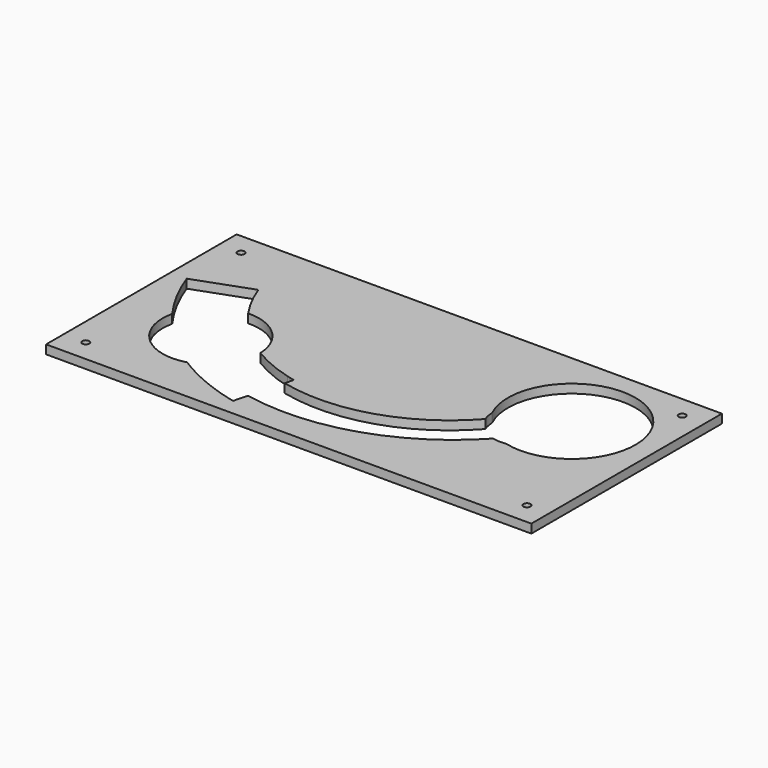
from build123d import *

# Parameters (mm, degrees)
F0_R     = 4
F1_DEPTH = 10


with BuildPart() as f1:
    # F0 (on Top) → F1 (new body)
    with BuildSketch(Plane.XY):
        Polygon((-224.408394, 93.936313), (-249.408394, 93.936313), (-249.408394, 68.936313), (-249.408394, -176.063687), (275.591606, -176.063687), (300.591606, -176.063687), (300.591606, -151.063687), (300.591606, 68.936313), (300.591606, 93.936313), (275.591606, 93.936313), align=None)
        with Locations((-224.408394, -151.063687)):
            Circle(F0_R, mode=Mode.SUBTRACT)
        with BuildLine():
            ThreePointArc((-198.823511, -60.576986), (-216.973623, -31.402782), (-230.917296, 0))
            Line((-230.917296, 0), (-167.946012, 22.882688))
            ThreePointArc((-167.946012, 22.882688), (-158.733845, 1.809746), (-146.923847, -17.924914))
            ThreePointArc((-146.923847, -17.924914), (-108.171022, -32.716157), (-91.003075, -70.47624))
            ThreePointArc((-91.003075, -70.47624), (-68.525919, -81.922304), (-44.675805, -90.132477))
            Line((-44.675805, -90.132477), (-40.679495, -91.203285))
            Line((-40.679495, -91.203285), (-35.518468, -92.55617))
            Line((-35.518468, -92.55617), (-38.070607, -102.234367))
            ThreePointArc((-38.070607, -102.234367), (60.633165, -98.703203), (143.518089, -44.991069))
            ThreePointArc((143.518089, -44.991069), (141.588793, -38.462345), (140.775067, -31.703331))
            ThreePointArc((140.775067, -31.703331), (252.018744, 55.121462), (187.631767, -70.449305))
            ThreePointArc((187.631767, -70.449305), (179.940549, -70.89635), (172.302944, -69.885576))
            ThreePointArc((172.302944, -69.885576), (71.271028, -134.344142), (-48.370382, -141.293069))
            Line((-48.370382, -141.293069), (-52.561394, -157.186182))
            Line((-52.561394, -157.186182), (-57.668778, -156.014525))
            Line((-57.668778, -156.014525), (-62.016681, -154.849508))
            ThreePointArc((-62.016681, -154.849508), (-70.790134, -152.3247), (-79.464713, -149.478684))
            ThreePointArc((-79.464713, -149.478684), (-92.807206, -144.392125), (-105.834834, -138.54609))
            ThreePointArc((-105.834834, -138.54609), (-118.286022, -132.081452), (-130.351728, -124.923075))
            ThreePointArc((-130.351728, -124.923075), (-182.935142, -112.273945), (-198.823511, -60.576986))
        make_face(mode=Mode.SUBTRACT)
        with Locations((275.591606, -151.063687)):
            Circle(F0_R, mode=Mode.SUBTRACT)
        with Locations((-224.408394, 68.936313)):
            Circle(F0_R, mode=Mode.SUBTRACT)
        with Locations((275.591606, 68.936313)):
            Circle(F0_R, mode=Mode.SUBTRACT)
    extrude(amount=F1_DEPTH)


solid = f1.part
